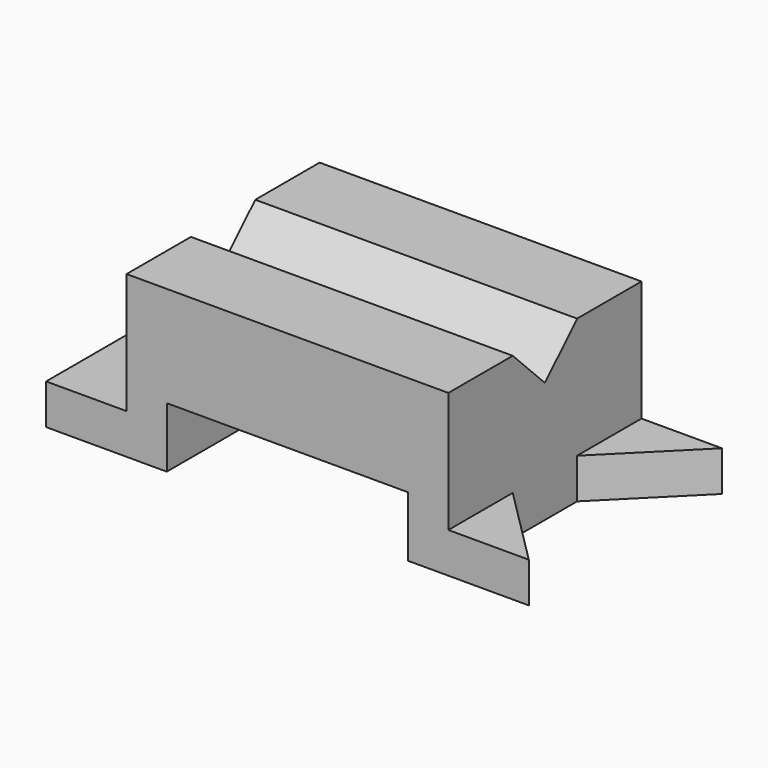
from build123d import *

# Parameters (mm, degrees)
F1_DEPTH = 38.1
F3_DEPTH = 12.701
F5_DEPTH = 127.001


with BuildPart() as f1:
    # F0 (on Front) → F1 (new body, symmetric)
    with BuildSketch(Plane.XZ):
        Polygon((-38.1, 19.05), (0, 19.05), (38.1, 19.05), (38.1, 0), (76.2, 0), (76.2, 12.7), (50.8, 12.7), (50.8, 50.8), (-50.8, 50.8), (-50.8, 12.7), (-76.2, 12.7), (-76.2, 0), (-38.1, 0), align=None)
    extrude(amount=F1_DEPTH, both=True)

    # F2 (on face) → F3 (cut, through all)
    with BuildSketch(Plane.XY.offset(12.7)):
        Polygon((50.8, -12.7), (76.2, -38.1), (76.2, 38.1), (50.8, 12.7), align=None)
    extrude(amount=-F3_DEPTH, mode=Mode.SUBTRACT)

    # F4 (on face) → F5 (cut, through all)
    with BuildSketch(Plane.YZ.offset(50.8)):
        Polygon((12.7, 50.8), (-12.7, 50.8), (0, 38.1), align=None)
    extrude(amount=-F5_DEPTH, mode=Mode.SUBTRACT)


solid = f1.part
